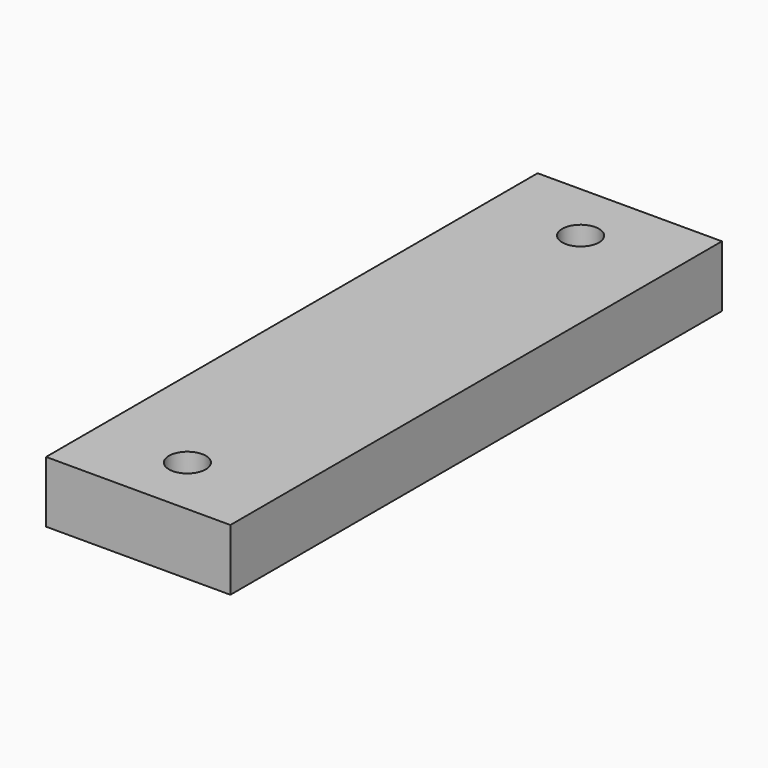
from build123d import *

# Parameters (mm, degrees)
F0_W     = 15
F0_H     = 50
F1_DEPTH = 5
F2_R     = 1.5
F3_DEPTH = 25.4


with BuildPart() as f1:
    # F0 (on Top) → F1 (new body)
    with BuildSketch(Plane.XY):
        with Locations((7.5, 25)):
            Rectangle(F0_W, F0_H)
    extrude(amount=F1_DEPTH)

    # F2 (on Top) → F3 (cut)
    with BuildSketch(Plane.XY):
        with Locations((7.5, 45)):
            Circle(F2_R)
        with Locations((7.5, 5)):
            Circle(F2_R)
    extrude(amount=F3_DEPTH, mode=Mode.SUBTRACT)


solid = f1.part
